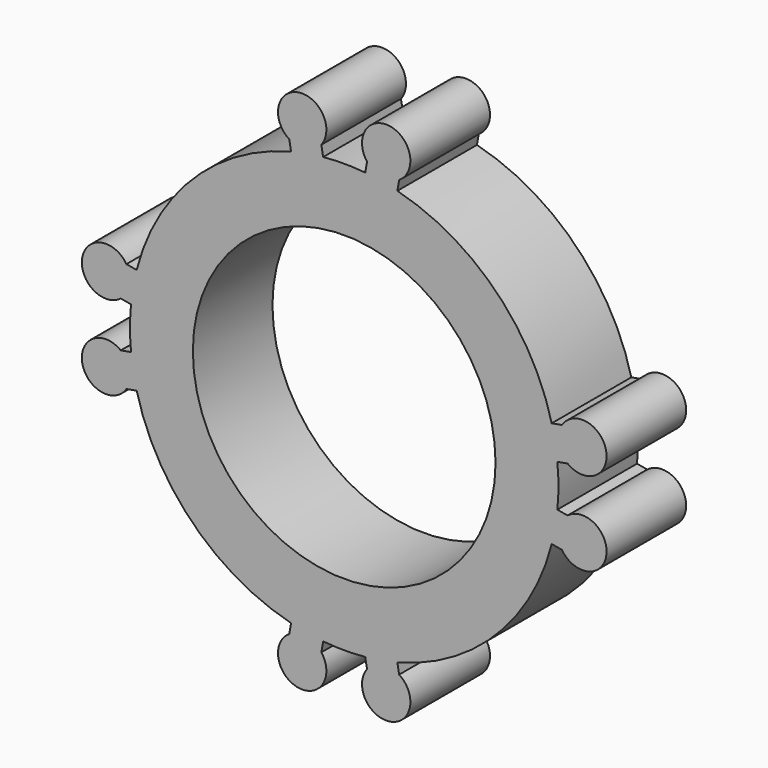
from build123d import *

# Parameters (mm, degrees)
F0_R     = 10.95
F1_DEPTH = 7.2


with BuildPart() as f1:
    # F0 (on Front) → F1 (new body)
    with BuildSketch(Plane.XZ):
        with BuildLine():
            Line((-3.975838, 15.756117), (-3.845241, 15.015463))
            ThreePointArc((-3.845241, 15.015463), (-10.960155, 10.960155), (-15.015463, 3.845241))
            ThreePointArc((-15.015463, 3.845241), (-15.26452, 2.691547), (-15.425069, 1.522246))
            ThreePointArc((-15.425069, 1.522246), (-15.5, 0), (-15.425069, -1.522246))
            ThreePointArc((-15.425069, -1.522246), (-15.26452, -2.691547), (-15.015463, -3.845241))
            ThreePointArc((-15.015463, -3.845241), (-10.960155, -10.960155), (-3.845241, -15.015463))
            ThreePointArc((-3.845241, -15.015463), (-2.691547, -15.26452), (-1.522246, -15.425069))
            ThreePointArc((-1.522246, -15.425069), (0, -15.5), (1.522246, -15.425069))
            ThreePointArc((1.522246, -15.425069), (2.691547, -15.26452), (3.845241, -15.015463))
            ThreePointArc((3.845241, -15.015463), (10.960155, -10.960155), (15.015463, -3.845241))
            ThreePointArc((15.015463, -3.845241), (15.26452, -2.691547), (15.425069, -1.522246))
            ThreePointArc((15.425069, -1.522246), (15.5, 0), (15.425069, 1.522246))
            ThreePointArc((15.425069, 1.522246), (15.26452, 2.691547), (15.015463, 3.845241))
            ThreePointArc((15.015463, 3.845241), (10.960155, 10.960155), (3.845241, 15.015463))
            Line((3.845241, 15.015463), (3.975838, 15.756117))
            ThreePointArc((3.975838, 15.756117), (3.342727, 18.957549), (1.652844, 16.165723))
            Line((1.652844, 16.165723), (1.522246, 15.425069))
            ThreePointArc((1.522246, 15.425069), (0, 15.5), (-1.522246, 15.425069))
            Line((-1.522246, 15.425069), (-1.652844, 16.165723))
            ThreePointArc((-1.652844, 16.165723), (-3.342727, 18.957549), (-3.975838, 15.756117))
        make_face()
        Circle(F0_R, mode=Mode.SUBTRACT)
        with BuildLine():
            ThreePointArc((-15.425069, 1.522246), (-15.26452, 2.691547), (-15.015463, 3.845241))
            Line((-15.015463, 3.845241), (-15.756117, 3.975838))
            ThreePointArc((-15.756117, 3.975838), (-18.957549, 3.342727), (-16.165723, 1.652844))
            Line((-16.165723, 1.652844), (-15.425069, 1.522246))
        make_face()
        with BuildLine():
            ThreePointArc((-15.015463, -3.845241), (-15.26452, -2.691547), (-15.425069, -1.522246))
            Line((-15.425069, -1.522246), (-16.165723, -1.652844))
            ThreePointArc((-16.165723, -1.652844), (-18.957549, -3.342727), (-15.756117, -3.975838))
            Line((-15.756117, -3.975838), (-15.015463, -3.845241))
        make_face()
        with BuildLine():
            ThreePointArc((-1.522246, -15.425069), (-2.691547, -15.26452), (-3.845241, -15.015463))
            Line((-3.845241, -15.015463), (-3.975838, -15.756117))
            ThreePointArc((-3.975838, -15.756117), (-3.342727, -18.957549), (-1.652844, -16.165723))
            Line((-1.652844, -16.165723), (-1.522246, -15.425069))
        make_face()
        with BuildLine():
            ThreePointArc((3.845241, -15.015463), (2.691547, -15.26452), (1.522246, -15.425069))
            Line((1.522246, -15.425069), (1.652844, -16.165723))
            ThreePointArc((1.652844, -16.165723), (3.342727, -18.957549), (3.975838, -15.756117))
            Line((3.975838, -15.756117), (3.845241, -15.015463))
        make_face()
        with BuildLine():
            Line((15.756117, 3.975838), (15.015463, 3.845241))
            ThreePointArc((15.015463, 3.845241), (15.26452, 2.691547), (15.425069, 1.522246))
            Line((15.425069, 1.522246), (16.165723, 1.652844))
            ThreePointArc((16.165723, 1.652844), (18.957549, 3.342727), (15.756117, 3.975838))
        make_face()
        with BuildLine():
            ThreePointArc((15.425069, -1.522246), (15.26452, -2.691547), (15.015463, -3.845241))
            Line((15.015463, -3.845241), (15.756117, -3.975838))
            ThreePointArc((15.756117, -3.975838), (18.957549, -3.342727), (16.165723, -1.652844))
            Line((16.165723, -1.652844), (15.425069, -1.522246))
        make_face()
    extrude(amount=F1_DEPTH)


solid = f1.part
